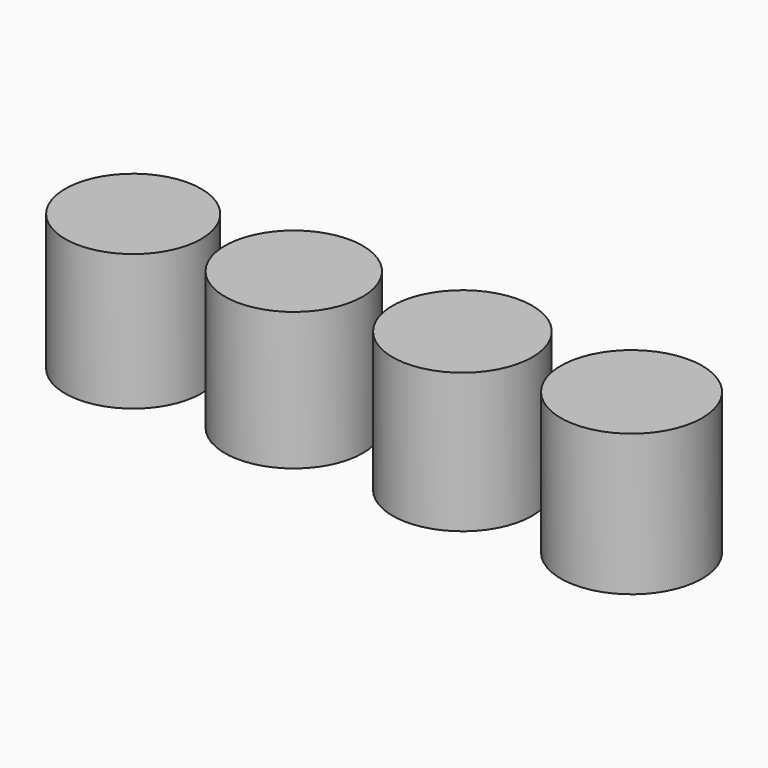
from build123d import *

# Parameters (mm, degrees)
F0_R     = 3.95
F1_DEPTH = 7.9
F0_R_2   = 3.9
F2_DEPTH = 7.8
F0_R_3   = 3.85
F3_DEPTH = 7.7
F0_R_4   = 3.8
F4_DEPTH = 7.6


with BuildPart() as f1:
    # F0 (on Top) → F1 (new body)
    with BuildSketch(Plane.XY):
        with Locations((9.446191, 0)):
            Circle(F0_R)
    extrude(amount=F1_DEPTH)


with BuildPart() as f2:
    # F0 (on Top) → F2 (new body)
    with BuildSketch(Plane.XY):
        Circle(F0_R_2)
    extrude(amount=F2_DEPTH)


with BuildPart() as f3:
    # F0 (on Top) → F3 (new body)
    with BuildSketch(Plane.XY):
        with Locations((-9.420032, 0)):
            Circle(F0_R_3)
    extrude(amount=F3_DEPTH)


with BuildPart() as f4:
    # F0 (on Top) → F4 (new body)
    with BuildSketch(Plane.XY):
        with Locations((-18.392134, 0)):
            Circle(F0_R_4)
    extrude(amount=F4_DEPTH)


solid = Compound([f1.part, f2.part, f3.part, f4.part])
